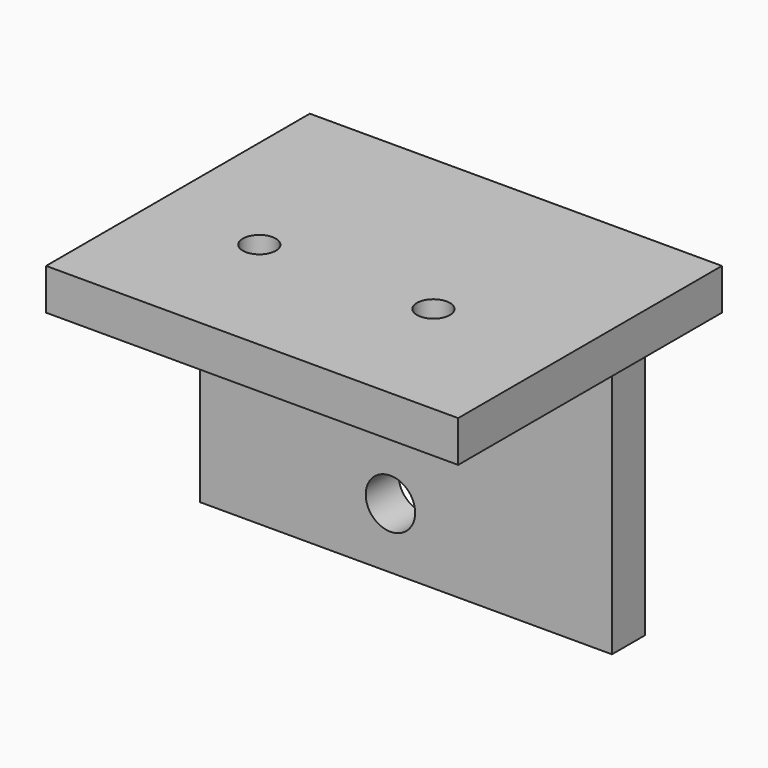
from build123d import *

# Parameters (mm, degrees)
F0_W     = 63.5
F0_H     = 50.8
F0_R     = 2.54
F2_DEPTH = 6.35
F1_W     = 63.5
F1_H     = 38.1
F1_R     = 3.81
F3_DEPTH = 6.35


with BuildPart() as f2:
    # F0 (on Top) → F2 (new body)
    with BuildSketch(Plane.XY):
        with Locations((2.81966, -11.114502)):
            Rectangle(F0_W, F0_H)
        with Locations((-12.351194, -16.165679)):
            Circle(F0_R, mode=Mode.SUBTRACT)
        with Locations((14.480258, -16.165679)):
            Circle(F0_R, mode=Mode.SUBTRACT)
    extrude(amount=F2_DEPTH)

    # F1 (on Front) → F3 (join)
    with BuildSketch(Plane.XZ):
        with Locations((2.38584, -19.05)):
            Rectangle(F1_W, F1_H)
        with Locations((0, -28.760821)):
            Circle(F1_R, mode=Mode.SUBTRACT)
        with Locations((0, -9.743084)):
            Circle(F1_R, mode=Mode.SUBTRACT)
    extrude(amount=F3_DEPTH)


solid = f2.part
